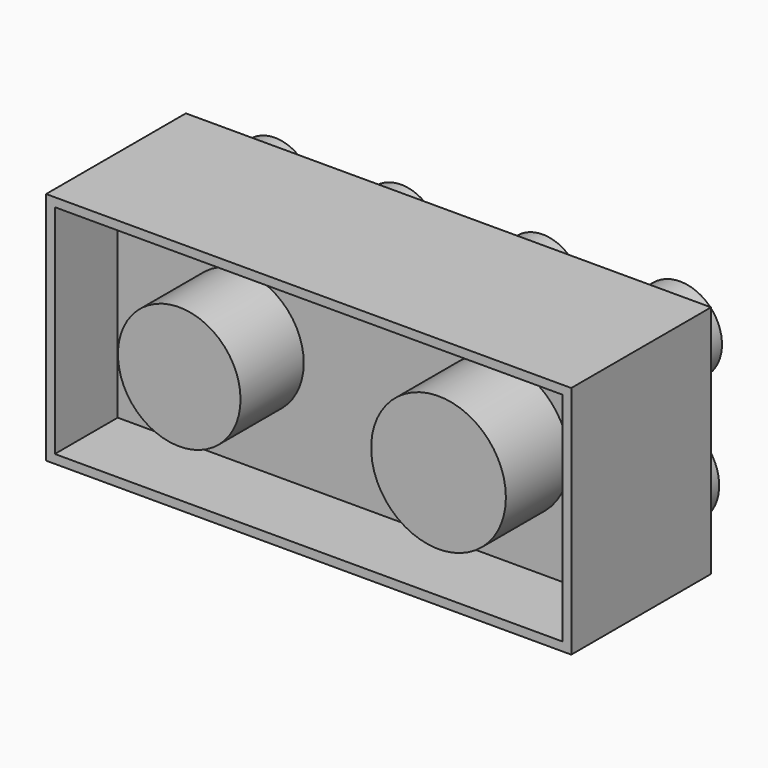
from build123d import *

# Parameters (mm, degrees)
F0_W     = 152.6974141598
F0_H     = 68.2531446218
F1_DEPTH = 25.4
F2_DEPTH = 25.4
F3_T     = -2.54
F4_DEPTH = 25.4
F5_R     = 11.1655265509
F5_R_2   = 11.2527895093
F5_R_3   = 12.2950319863
F5_R_4   = 13.1342738177
F5_R_5   = 12.1678107689
F5_R_6   = 11.5067470657
F5_R_7   = 11.4719197335
F5_R_8   = 11.2409300987
F6_DEPTH = 11.901790014
F7_DEPTH = 9.59548
F8_R     = 17.8222476658
F8_R_2   = 19.5893706017
F9_DEPTH = 22.97085


with BuildPart() as f1:
    # F0 (on Front) → F1 (new body)
    with BuildSketch(Plane.XZ):
        Rectangle(F0_W, F0_H)
    extrude(amount=F1_DEPTH)

    # F2 (add): a face of the model
    f2_faces = [f1.faces().sort_by_distance(p)[0] for p in [
        (0, -25.4, 0),
    ]]
    extrude(f2_faces, amount=F2_DEPTH)

    # F3
    f3_openings = [f1.faces().sort_by_distance(p)[0] for p in [
        (0, -50.8, 0),
    ]]
    offset(amount=F3_T, openings=f3_openings)

    # F4 (add): a face of the model
    f4_faces = [f1.faces().sort_by_distance(p)[0] for p in [
        (0, -2.54, 0),
    ]]
    extrude(f4_faces, amount=F4_DEPTH)

    # F5 (on face) → F6 (join)
    with BuildSketch(Plane(origin=(0, 0, 0), x_dir=(-1, 0, 0), z_dir=(0, 1, 0))):
        with Locations((60.2360665798, -18.3391999453)):
            Circle(F5_R)
        with Locations((23.5576685518, -18.6373982579)):
            Circle(F5_R_2)
        with Locations((-16.9973094016, -18.3391999453)):
            Circle(F5_R_3)
        with Locations((-56.0612902045, -18.6373982579)):
            Circle(F5_R_4)
        with Locations((-57.8504800797, 17.7428014576)):
            Circle(F5_R_5)
        with Locations((-17.8919043392, 17.4446031451)):
            Circle(F5_R_6)
        with Locations((23.2594702393, 16.8482083827)):
            Circle(F5_R_7)
        with Locations((59.9378682673, 17.1464048326)):
            Circle(F5_R_8)
    extrude(amount=F6_DEPTH)

    # F5 (on face) → F7 (join)
    with BuildSketch(Plane(origin=(0, 0, 0), x_dir=(-1, 0, 0), z_dir=(0, 1, 0))):
        with Locations((60.2360665798, -18.3391999453)):
            Circle(F5_R)
        with Locations((23.5576685518, -18.6373982579)):
            Circle(F5_R_2)
        with Locations((59.9378682673, 17.1464048326)):
            Circle(F5_R_8)
        with Locations((23.2594702393, 16.8482083827)):
            Circle(F5_R_7)
        with Locations((-16.9973094016, -18.3391999453)):
            Circle(F5_R_3)
        with Locations((-56.0612902045, -18.6373982579)):
            Circle(F5_R_4)
        with Locations((-17.8919043392, 17.4446031451)):
            Circle(F5_R_6)
        with Locations((-57.8504800797, 17.7428014576)):
            Circle(F5_R_5)
    extrude(amount=F7_DEPTH)

    # F8 (on face) → F9 (join)
    with BuildSketch(Plane.XZ.offset(27.94)):
        with Locations((-37.5465936959, 0)):
            Circle(F8_R)
        with Locations((37.8445833921, 0)):
            Circle(F8_R_2)
    extrude(amount=F9_DEPTH)


solid = f1.part
